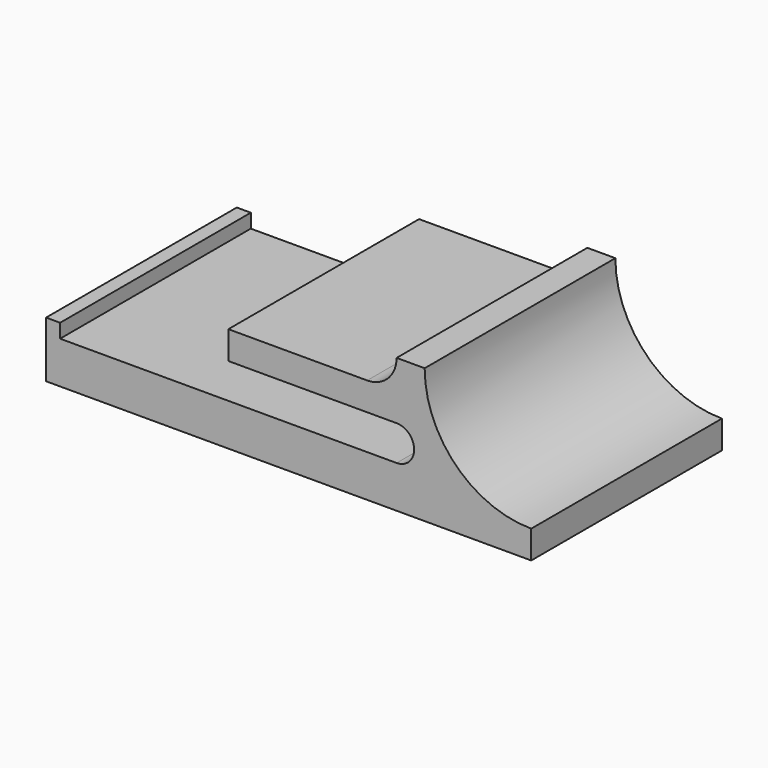
from build123d import *

# Parameters (mm, degrees)
EXTRUDE015_DEPTH = 27.5
EXTRUDE_DEPTH    = 17


with BuildPart() as extrude015:
    # Sketch020 → Extrude015 (new body)
    with BuildSketch(Plane(origin=(-6, 0, 0), x_dir=(0, -1, 0), z_dir=(-1, 0, 0))):
        Polygon((19.5, -10.1), (19.5, -9.1), (5, -9.1), (4, -10.1), align=None)
    extrude(amount=EXTRUDE015_DEPTH)


with BuildPart() as cut006:
    # Sketch001 → Extrude (new body)
    with BuildSketch(Plane.XZ.offset(25)):
        with BuildLine():
            ThreePointArc((-7.6, 0), (-5.374012, -5.374012), (0, -7.6))
            Line((0, -7.6), (0, -9.6))
            Line((0, -9.6), (-34.6, -9.6))
            Line((-34.6, -9.6), (-34.6, -5.6))
            Line((-33.6, -5.6), (-34.6, -5.6))
            Line((-33.6, -6.6), (-33.6, -5.6))
            Line((-33.6, -6.6), (-9.6, -6.6))
            ThreePointArc((-9.6, -6.6), (-8.35, -5.35), (-9.6, -4.1))
            Line((-9.6, -4.1), (-21.6, -4.1))
            Line((-21.6, -4.1), (-21.6, -2.1))
            Line((-21.6, -2.1), (-11.7, -2.1))
            ThreePointArc((-11.7, -2.1), (-10.215076, -1.484924), (-9.6, 0))
            Line((-9.6, 0), (-7.6, 0))
        make_face()
    extrude(amount=-EXTRUDE_DEPTH)


with BuildPart() as cut006_1:
    # Extrude placement: moved
    add(cut006.part.moved(Location((0, 4.5, 0))))

    # Cut006: cut Extrude015
    add(extrude015.part, mode=Mode.SUBTRACT)


solid = cut006_1.part
